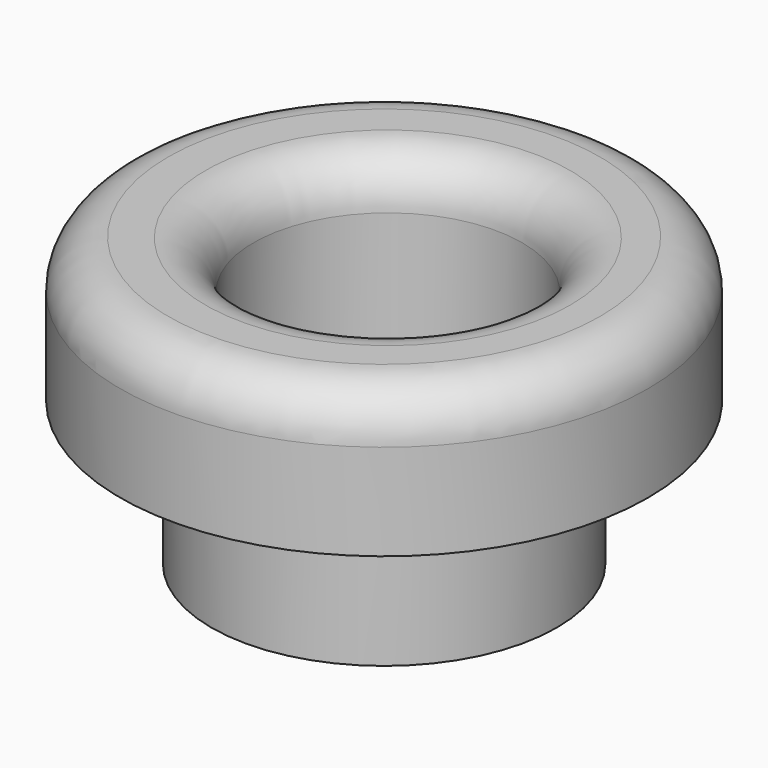
from build123d import *

# Parameters (mm, degrees)
F0_R     = 5.5
F0_R_2   = 3.6
F0_R_3   = 2.8
F1_DEPTH = 3
F2_DEPTH = 3
F3_R     = 1


with BuildPart() as f1:
    # F0 (on Top) → F1 (new body)
    with BuildSketch(Plane.XY):
        Circle(F0_R)
        Circle(F0_R_2, mode=Mode.SUBTRACT)
        Circle(F0_R_2)
        with Locations((0.072045, 0.007089)):
            Circle(F0_R_3, mode=Mode.SUBTRACT)
    extrude(amount=F1_DEPTH)

    # F0 (on Top) → F2 (join)
    with BuildSketch(Plane.XY):
        Circle(F0_R_2)
        with Locations((0.072045, 0.007089)):
            Circle(F0_R_3, mode=Mode.SUBTRACT)
    extrude(amount=-F2_DEPTH)

    # F3
    f3_edges = [f1.edges().sort_by_distance(p)[0] for p in [
        (-2.727955, 0.007089, 3),
        (-5.5, 0, 3),
    ]]
    fillet(f3_edges, radius=F3_R)


solid = f1.part
